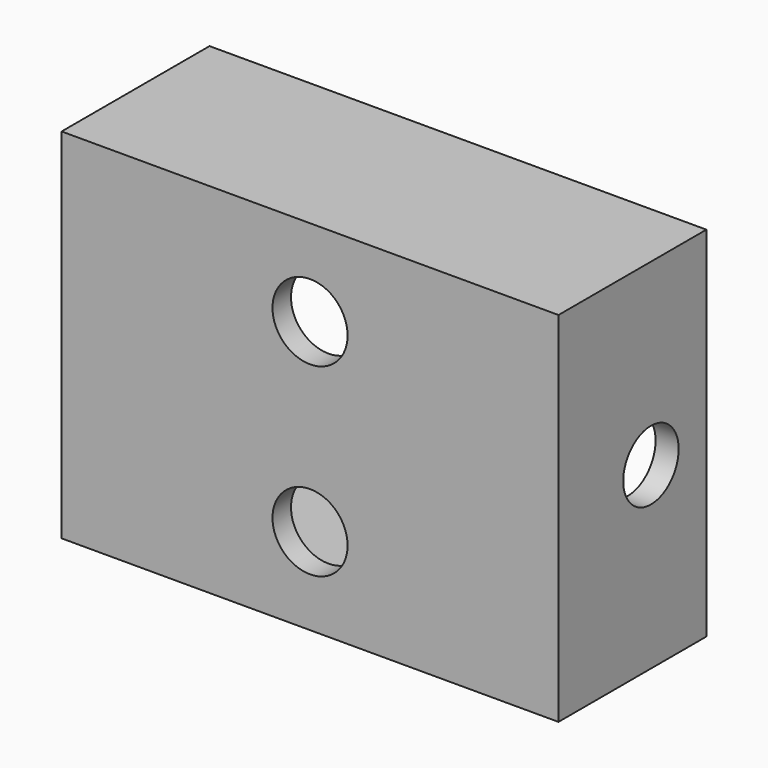
from build123d import *

# Parameters (mm, degrees)
F0_W      = 43
F0_H      = 31
F1_DEPTH  = 16
F2_T      = -2
F3_R      = 3.25
F4_DEPTH  = 16.001
F5_R      = 3
F6_DEPTH  = 7.6
F7_W      = 5
F7_H      = 5
F8_DEPTH  = 14
F9_W      = 5
F9_H      = 5
F10_DEPTH = 14
F12_R     = 1
F13_DEPTH = 10
F14_R     = 4.5
F15_DEPTH = 1


with BuildPart() as f1:
    # F0 (on Front) → F1 (new body)
    with BuildSketch(Plane.XZ):
        Rectangle(F0_W, F0_H)
    extrude(amount=F1_DEPTH)

    # F2
    f2_openings = [f1.faces().sort_by_distance(p)[0] for p in [
        (0, 0, 0),
    ]]
    offset(amount=F2_T, openings=f2_openings)

    # F3 (on face) → F4 (cut, through all)
    with BuildSketch(Plane.XZ.offset(16)):
        with Locations((0, 8)):
            Circle(F3_R)
        with Locations((0, -8)):
            Circle(F3_R)
    extrude(amount=-F4_DEPTH, mode=Mode.SUBTRACT)

    # F5 (on face) → F6 (cut)
    with BuildSketch(Plane.YZ.offset(21.5)):
        with Locations((-6, 0)):
            Circle(F5_R)
    extrude(amount=-F6_DEPTH, mode=Mode.SUBTRACT)

    # F7 (on face) → F8 (join, through all)
    with BuildSketch(Plane(origin=(0, 0, 0), x_dir=(-1, 0, 0), z_dir=(0, 1, 0))):
        with Locations((17, 11)):
            Rectangle(F7_W, F7_H)
    extrude(amount=-F8_DEPTH)


with BuildPart() as f10:
    # F9 (on face) → F10 (new body, through all)
    with BuildSketch(Plane(origin=(0, 0, 0), x_dir=(-1, 0, 0), z_dir=(0, 1, 0))):
        with Locations((17, -11)):
            Rectangle(F9_W, F9_H)
        with Locations((-17, -11)):
            Rectangle(F9_W, F9_H)
        with Locations((-17, 11)):
            Rectangle(F9_W, F9_H)
    extrude(amount=-F10_DEPTH)


with BuildPart() as f1_1:
    add(f1.part)

    # F11: union F10
    add(f10.part)

    # F12 (on face) → F13 (cut)
    with BuildSketch(Plane(origin=(0, 0, 0), x_dir=(-1, 0, 0), z_dir=(0, 1, 0))):
        with Locations((18, 12)):
            Circle(F12_R)
        with Locations((18, -12)):
            Circle(F12_R)
        with Locations((-18, 12)):
            Circle(F12_R)
        with Locations((-18, -12)):
            Circle(F12_R)
    extrude(amount=-F13_DEPTH, mode=Mode.SUBTRACT)

    # F14 (on face) → F15 (cut)
    with BuildSketch(Plane(origin=(0, -14, 0), x_dir=(-1, 0, 0), z_dir=(0, 1, 0))):
        with Locations((-14, 0)):
            Circle(F14_R)
        with Locations((14, 0)):
            Circle(F14_R)
    extrude(amount=-F15_DEPTH, mode=Mode.SUBTRACT)


solid = f1_1.part
